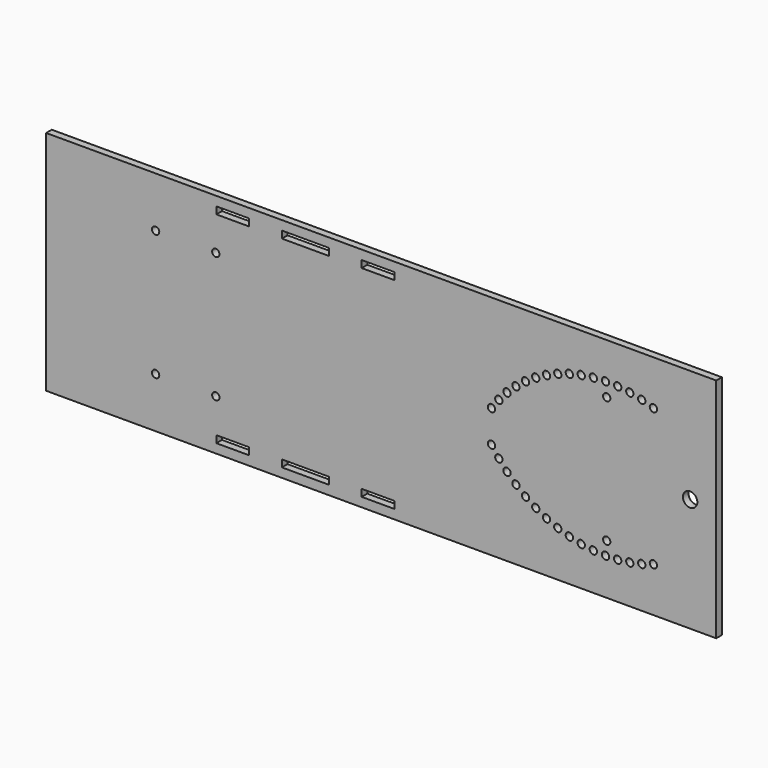
from build123d import *

# Parameters (mm, degrees)
F0_W     = 300
F0_H     = 101.6
F0_R     = 1.64084
F0_W_2   = 14.666667
F0_H_2   = 3.175
F0_R_2   = 3.2385
F1_DEPTH = 3.175


with BuildPart() as f1:
    # F0 (on Front) → F1 (new body)
    with BuildSketch(Plane.XZ):
        Rectangle(F0_W, F0_H)
        with Locations((-100.9747, -28.25)):
            Circle(F0_R, mode=Mode.SUBTRACT)
        with Locations((-66.447916, -45.085)):
            Rectangle(F0_W_2, F0_H_2, mode=Mode.SUBTRACT)
        Polygon((-23.395833, -46.6725), (-29.78125, -46.6725), (-38.0625, -46.6725), (-44.447917, -46.6725), (-44.447917, -43.4975), (-38.0625, -43.4975), (-29.78125, -43.4975), (-23.395833, -43.4975), align=None, mode=Mode.SUBTRACT)
        with Locations((-1.395834, -45.085)):
            Rectangle(F0_W_2, F0_H_2, mode=Mode.SUBTRACT)
        with Locations((-74.0253, -28.25)):
            Circle(F0_R, mode=Mode.SUBTRACT)
        with Locations((74.0253, -28.25)):
            Circle(F0_R, mode=Mode.SUBTRACT)
        with Locations((69.203551, -25.686205)):
            Circle(F0_R, mode=Mode.SUBTRACT)
        with Locations((84.245844, -32.071352)):
            Circle(F0_R, mode=Mode.SUBTRACT)
        with Locations((89.566855, -33.299827)):
            Circle(F0_R, mode=Mode.SUBTRACT)
        with Locations((94.974686, -34.059871)):
            Circle(F0_R, mode=Mode.SUBTRACT)
        with Locations((100.428181, -34.345699)):
            Circle(F0_R, mode=Mode.SUBTRACT)
        with Locations((105.885835, -34.155135)):
            Circle(F0_R, mode=Mode.SUBTRACT)
        with Locations((111.306113, -33.489631)):
            Circle(F0_R, mode=Mode.SUBTRACT)
        with Locations((79.05215, -30.383795)):
            Circle(F0_R, mode=Mode.SUBTRACT)
        with Locations((100.9747, -28.25)):
            Circle(F0_R, mode=Mode.SUBTRACT)
        with Locations((116.647762, -32.354251)):
            Circle(F0_R, mode=Mode.SUBTRACT)
        with Locations((121.87013, -30.757637)):
            Circle(F0_R, mode=Mode.SUBTRACT)
        with Locations((64.6236, -22.711924)):
            Circle(F0_R, mode=Mode.SUBTRACT)
        with Locations((60.320302, -19.349791)):
            Circle(F0_R, mode=Mode.SUBTRACT)
        with Locations((56.32641, -15.625395)):
            Circle(F0_R, mode=Mode.SUBTRACT)
        with Locations((52.672317, -11.567081)):
            Circle(F0_R, mode=Mode.SUBTRACT)
        with Locations((49.385835, -7.205735)):
            Circle(F0_R, mode=Mode.SUBTRACT)
        with Locations((-100.9747, 28.25)):
            Circle(F0_R, mode=Mode.SUBTRACT)
        with Locations((-74.0253, 28.25)):
            Circle(F0_R, mode=Mode.SUBTRACT)
        with Locations((-66.447916, 45.085)):
            Rectangle(F0_W_2, F0_H_2, mode=Mode.SUBTRACT)
        Polygon((-23.395833, 46.6725), (-23.395833, 43.4975), (-29.78125, 43.4975), (-38.0625, 43.4975), (-44.447917, 43.4975), (-44.447917, 46.6725), (-38.0625, 46.6725), (-29.78125, 46.6725), align=None, mode=Mode.SUBTRACT)
        with Locations((-1.395834, 45.085)):
            Rectangle(F0_W_2, F0_H_2, mode=Mode.SUBTRACT)
        with Locations((49.385835, 7.205735)):
            Circle(F0_R, mode=Mode.SUBTRACT)
        with Locations((52.672317, 11.567081)):
            Circle(F0_R, mode=Mode.SUBTRACT)
        with Locations((56.32641, 15.625395)):
            Circle(F0_R, mode=Mode.SUBTRACT)
        with Locations((60.320302, 19.349791)):
            Circle(F0_R, mode=Mode.SUBTRACT)
        with Locations((64.6236, 22.711924)):
            Circle(F0_R, mode=Mode.SUBTRACT)
        with Locations((138.292953, 0.08036)):
            Circle(F0_R_2, mode=Mode.SUBTRACT)
        with Locations((69.203551, 25.686205)):
            Circle(F0_R, mode=Mode.SUBTRACT)
        with Locations((74.0253, 28.25)):
            Circle(F0_R, mode=Mode.SUBTRACT)
        with Locations((79.05215, 30.383795)):
            Circle(F0_R, mode=Mode.SUBTRACT)
        with Locations((100.9747, 28.25)):
            Circle(F0_R, mode=Mode.SUBTRACT)
        with Locations((84.245844, 32.071352)):
            Circle(F0_R, mode=Mode.SUBTRACT)
        with Locations((89.566855, 33.299827)):
            Circle(F0_R, mode=Mode.SUBTRACT)
        with Locations((94.974686, 34.059871)):
            Circle(F0_R, mode=Mode.SUBTRACT)
        with Locations((100.428181, 34.345699)):
            Circle(F0_R, mode=Mode.SUBTRACT)
        with Locations((105.885835, 34.155135)):
            Circle(F0_R, mode=Mode.SUBTRACT)
        with Locations((111.306113, 33.489631)):
            Circle(F0_R, mode=Mode.SUBTRACT)
        with Locations((121.87013, 30.757637)):
            Circle(F0_R, mode=Mode.SUBTRACT)
        with Locations((116.647762, 32.354251)):
            Circle(F0_R, mode=Mode.SUBTRACT)
    extrude(amount=F1_DEPTH)


solid = f1.part
